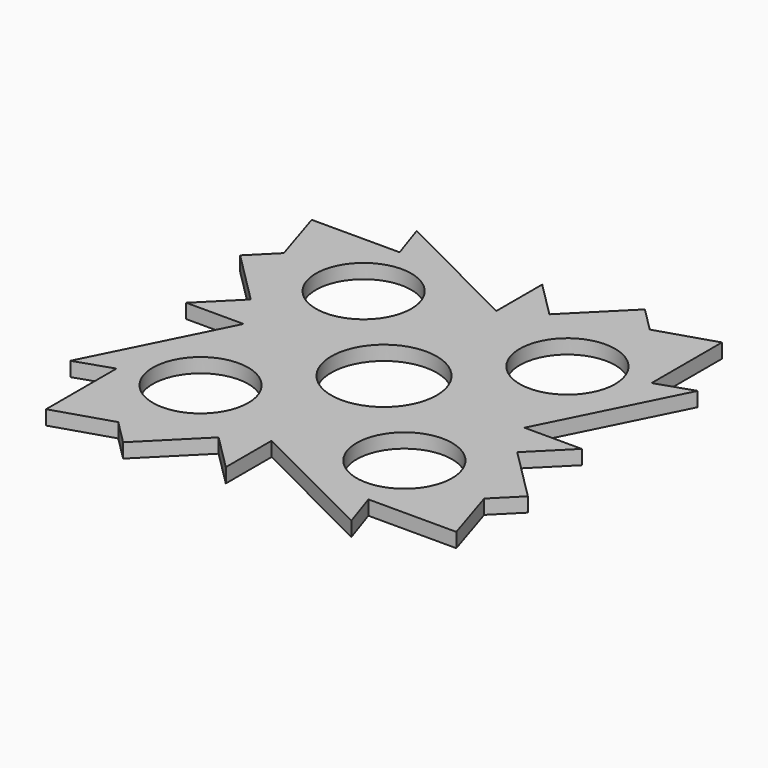
from build123d import *

# Parameters (mm, degrees)
F0_R     = 9.95
F0_R_2   = 11
F1_DEPTH = 3


with BuildPart() as f1:
    # F0 (on Top) → F1 (new body)
    with BuildSketch(Plane.XY):
        Polygon((0, 41.223182), (0, 29.277859), (-27.747886, 43.184116), (-25.219476, 35.598885), (-43.550447, 35.598885), (-39.757833, 23.588937), (-44.814652, 18.532118), (-33.752858, 7.470324), (-41.223182, 0), (-29.277859, 0), (-43.184116, -27.747886), (-35.598885, -25.219476), (-35.598885, -43.550447), (-23.588937, -39.757833), (-18.532118, -44.814652), (-7.470324, -33.752858), (0, -41.223182), (0, -29.277859), (27.747886, -43.184116), (25.219476, -35.598885), (43.550447, -35.598885), (39.757833, -23.588937), (44.814652, -18.532118), (33.752858, -7.470324), (41.223182, 0), (29.277859, 0), (43.184116, 27.747886), (35.598885, 25.219476), (35.598885, 43.550447), (23.588937, 39.757833), (18.532118, 44.814652), (7.470324, 33.752858), align=None)
        with Locations((-21.243694, -21.243694)):
            Circle(F0_R, mode=Mode.SUBTRACT)
        with Locations((21.243694, -21.243694)):
            Circle(F0_R, mode=Mode.SUBTRACT)
        with Locations((-21.243694, 21.243694)):
            Circle(F0_R, mode=Mode.SUBTRACT)
        Circle(F0_R_2, mode=Mode.SUBTRACT)
        with Locations((21.243694, 21.243694)):
            Circle(F0_R, mode=Mode.SUBTRACT)
    extrude(amount=F1_DEPTH)


solid = f1.part
